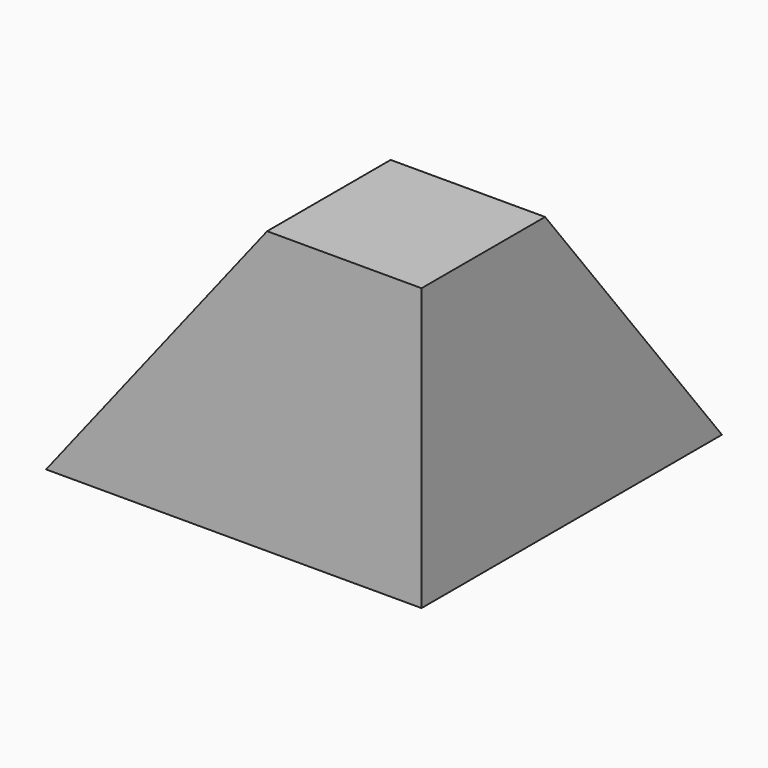
from build123d import *

# Parameters (mm, degrees)
BOX021_W     = 100
BOX021_H     = 100
BOX021_DEPTH = 75
SKETCH056_W  = 275
SKETCH056_H  = 275
SKETCH057_W  = 0.1
SKETCH057_H  = 0.1


with BuildPart() as cube003:
    # Box021 → Box021 (new body)
    with BuildSketch(Plane(origin=(0, 175, 0), x_dir=(1, 0, 0), z_dir=(0, 0, 1))):
        with Locations((50, 50)):
            Rectangle(BOX021_W, BOX021_H)
    extrude(amount=BOX021_DEPTH)


with BuildPart() as legs004:
    # Sketch056 → Loft020 section 0
    with BuildSketch(Plane.XY):
        with Locations((137.5, 137.5)):
            Rectangle(SKETCH056_W, SKETCH056_H)
    # Sketch057 → Loft020 section 1
    with BuildSketch(Plane.XY.offset(175.1)):
        with Locations((137.5, 137.5)):
            Rectangle(SKETCH057_W, SKETCH057_H)
    loft()

    # Common015: intersect Cube003
    add(cube003.part, mode=Mode.INTERSECT)


with BuildPart() as legs004_1:
    # Common015 placement: moved
    add(legs004.part.moved(Location((-58.87, 58.87, -75))))


solid = legs004_1.part
